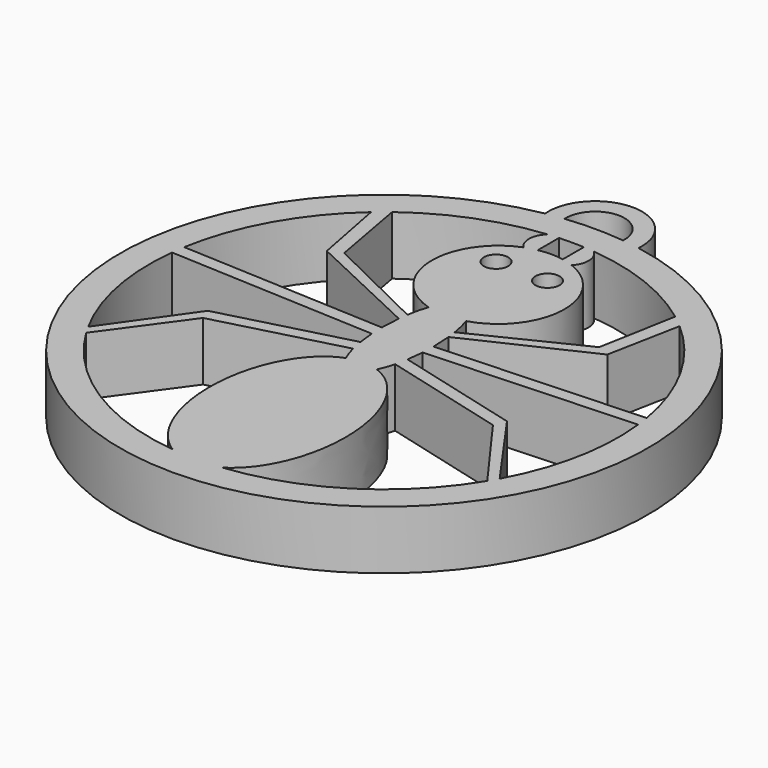
from build123d import *

# Parameters (mm, degrees)
F0_R     = 1.0365074283
F1_DEPTH = 5


with BuildPart() as f1:
    # F0 (on Top) → F1 (new body)
    with BuildSketch(Plane.XY):
        with BuildLine():
            ThreePointArc((-3.9841661922, 22.1444444444), (0, -22.5), (3.9841661922, 22.1444444444))
            ThreePointArc((3.9841661922, 22.1444444444), (0, 26.5), (-3.9841661922, 22.1444444444))
        make_face()
        with BuildLine():
            Line((-12.361779034, -3.8413735326), (-1.7917317985, -1.0537330189))
            add(Edge.make_bspline(
                [(-1.7917317985, -1.0537330189), (-1.5906673745, -1.8358674236), (-1.3134624845, -2.409225668)],
                knots=[5.3341932638, 5.3341932638, 5.3341932638, 5.6448500513, 5.6448500513, 5.6448500513], degree=2, weights=[1, 0.98796078, 1]))
            add(Edge.make_bspline(
                [(-1.3134624845, -2.409225668), (-19.5695791708, -9.1070002923), (-2.1141889978, -19.8879411926)],
                knots=[0.2281836428, 0.2281836428, 0.2281836428, 2.7689132091, 2.7689132091, 2.7689132091], degree=2, weights=[1, 0.2959324485, 1]))
            ThreePointArc((-2.1141889978, -19.8879411926), (-10.722049734, -16.8830580613), (-17.1017455245, -10.3696817702))
            Line((-17.1017455245, -10.3696817702), (-12.361779034, -3.8413735326))
        make_face(mode=Mode.SUBTRACT)
        with BuildLine():
            Line((-19.8736669699, 2.2444066409), (-2.1675859993, 1.4086192827))
            add(Edge.make_bspline(
                [(-2.1675859993, 1.4086192827), (-2.1191105118, 0.6776559948), (-2.0095094668, 0)],
                knots=[4.8951971827, 4.8951971827, 4.8951971827, 5.1359653729, 5.1359653729, 5.1359653729], degree=2, weights=[1, 0.9927625817, 1]))
            Line((-2.0095094668, 0), (-12.7543099225, -2.8337282129))
            Line((-12.7543099225, -2.8337282129), (-17.5429792365, -9.6043677308))
            ThreePointArc((-17.5429792365, -9.6043677308), (-19.6239577267, -3.8600884885), (-19.8736669699, 2.2444066409))
        make_face(mode=Mode.SUBTRACT)
        with BuildLine():
            add(Edge.make_bspline(
                [(2.1141889978, -19.8879411926), (19.5695791708, -9.1070002923), (1.3134624845, -2.409225668)],
                knots=[3.5142720981, 3.5142720981, 3.5142720981, 6.0550016644, 6.0550016644, 6.0550016644], degree=2, weights=[1, 0.2959324485, 1]))
            add(Edge.make_bspline(
                [(1.3134624845, -2.409225668), (1.5906673745, -1.8358674236), (1.7917317985, -1.0537330189)],
                knots=[0.6383352558, 0.6383352558, 0.6383352558, 0.9489920434, 0.9489920434, 0.9489920434], degree=2, weights=[1, 0.98796078, 1]))
            Line((1.7917317985, -1.0537330189), (12.361779034, -3.8413735326))
            Line((12.361779034, -3.8413735326), (17.1017455245, -10.3696817702))
            ThreePointArc((17.1017455245, -10.3696817702), (10.722049734, -16.8830580613), (2.1141889978, -19.8879411926))
        make_face(mode=Mode.SUBTRACT)
        with BuildLine():
            add(Edge.make_bspline(
                [(2.0095094668, 0), (2.1191105118, 0.6776559948), (2.1675859993, 1.4086192827)],
                knots=[1.1472199343, 1.1472199343, 1.1472199343, 1.3879881245, 1.3879881245, 1.3879881245], degree=2, weights=[1, 0.9927625817, 1]))
            Line((2.1675859993, 1.4086192827), (19.8736669699, 2.2444066409))
            ThreePointArc((19.8736669699, 2.2444066409), (19.6239577267, -3.8600884885), (17.5429792365, -9.6043677308))
            Line((17.5429792365, -9.6043677308), (12.7543099225, -2.8337282129))
            Line((12.7543099225, -2.8337282129), (2.0095094668, 0))
        make_face(mode=Mode.SUBTRACT)
        with BuildLine():
            Line((-13.1589546645, 15.0612719296), (-11.9581893981, 8.8521399225))
            Line((-11.9581893981, 8.8521399225), (-2.1184332771, 4.224274002))
            add(Edge.make_bspline(
                [(-2.1184332771, 4.224274002), (-2.2043163846, 3.3918710061), (-2.2043163846, 2.5257216766)],
                knots=[4.4323282948, 4.4323282948, 4.4323282948, 4.7123889804, 4.7123889804, 4.7123889804], degree=2, weights=[1, 0.9902117616, 1]))
            Line((-2.2043163846, 2.5257216766), (-19.7170367089, 3.3523817534))
            ThreePointArc((-19.7170367089, 3.3523817534), (-17.4494191733, 9.7733193192), (-13.1589546645, 15.0612719296))
        make_face(mode=Mode.SUBTRACT)
        with BuildLine():
            ThreePointArc((-12.0695648894, 15.9475892655), (-7.2930339661, 18.6228798946), (-1.9700282112, 19.9027382249))
            ThreePointArc((-1.9700282112, 19.9027382249), (-2.5376799412, 18.6867126776), (-2.0601059912, 17.4325716407))
            ThreePointArc((-2.0601059912, 17.4325716407), (-5.6475621585, 11.9263001397), (-1.6017195104, 6.7474947888))
            add(Edge.make_bspline(
                [(-1.6017195104, 6.7474947888), (-1.8617987609, 5.9806856047), (-2.0152058244, 5.0159234701)],
                knots=[3.9549946977, 3.9549946977, 3.9549946977, 4.2951442816, 4.2951442816, 4.2951442816], degree=2, weights=[1, 0.9855721107, 1]))
            Line((-2.0152058244, 5.0159234701), (-10.8698017311, 9.3490192993))
            Line((-10.8698017311, 9.3490192993), (-12.0695648894, 15.9475892655))
        make_face(mode=Mode.SUBTRACT)
        with Locations((-2.194955945, 14.6822528914)):
            Circle(F0_R, mode=Mode.SUBTRACT)
        with BuildLine():
            ThreePointArc((-1.0600310052, 19.9718886004), (0, 20), (1.0600310052, 19.9718886004))
            Line((1.0600310052, 19.9718886004), (1.0600310052, 17.7210549676))
            ThreePointArc((1.0600310052, 17.7210549676), (0, 17.8213354129), (-1.0600310052, 17.7210549676))
            Line((-1.0600310052, 17.7210549676), (-1.0600310052, 19.9718886004))
        make_face(mode=Mode.SUBTRACT)
        with BuildLine():
            ThreePointArc((-2.4961389938, 22.3611111111), (0, 25), (2.4961389938, 22.3611111111))
            ThreePointArc((2.4961389938, 22.3611111111), (0, 22.5), (-2.4961389938, 22.3611111111))
        make_face(mode=Mode.SUBTRACT)
        with BuildLine():
            add(Edge.make_bspline(
                [(2.2043163846, 2.5257216766), (2.2043163846, 3.3918710061), (2.1184332771, 4.224274002)],
                knots=[1.5707963268, 1.5707963268, 1.5707963268, 1.8508570124, 1.8508570124, 1.8508570124], degree=2, weights=[1, 0.9902117616, 1]))
            Line((2.1184332771, 4.224274002), (11.9581893981, 8.8521399225))
            Line((11.9581893981, 8.8521399225), (13.1589546645, 15.0612719296))
            ThreePointArc((13.1589546645, 15.0612719296), (17.4494191733, 9.7733193192), (19.7170367089, 3.3523817534))
            Line((19.7170367089, 3.3523817534), (2.2043163846, 2.5257216766))
        make_face(mode=Mode.SUBTRACT)
        with BuildLine():
            add(Edge.make_bspline(
                [(2.0152058244, 5.0159234701), (1.8617987609, 5.9806856047), (1.6017195104, 6.7474947888)],
                knots=[1.9880410256, 1.9880410256, 1.9880410256, 2.3281906095, 2.3281906095, 2.3281906095], degree=2, weights=[1, 0.9855721107, 1]))
            ThreePointArc((1.6017195104, 6.7474947888), (5.6475621585, 11.9263001397), (2.0601059912, 17.4325716407))
            ThreePointArc((2.0601059912, 17.4325716407), (2.5376799412, 18.6867126776), (1.9700282112, 19.9027382249))
            ThreePointArc((1.9700282112, 19.9027382249), (7.2930339661, 18.6228798946), (12.0695648894, 15.9475892655))
            Line((12.0695648894, 15.9475892655), (10.8698017311, 9.3490192993))
            Line((10.8698017311, 9.3490192993), (2.0152058244, 5.0159234701))
        make_face(mode=Mode.SUBTRACT)
        with Locations((2.194955945, 14.6822528914)):
            Circle(F0_R, mode=Mode.SUBTRACT)
    extrude(amount=F1_DEPTH)


solid = f1.part
